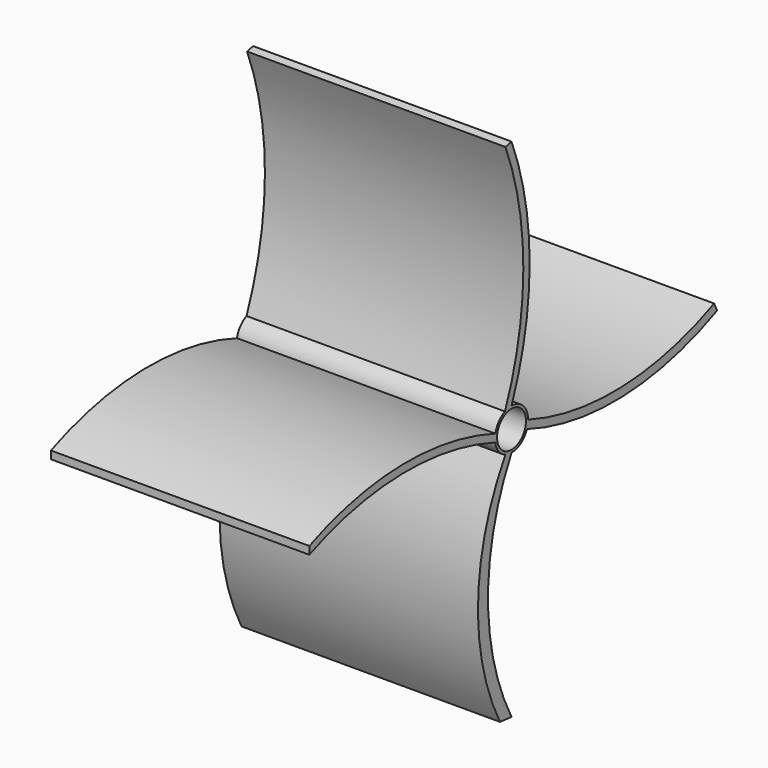
from build123d import *

# Parameters (mm, degrees)
F1_R      = 5.08
F2_DEPTH  = 63.5
F0_R      = 4.445
F3_DEPTH  = 63.5
F5_DEPTH  = 63.5
F7_DEPTH  = 63.5
F8_DEPTH  = 63.5
F9_DEPTH  = 63.5
F10_DEPTH = 63.5
F12_DEPTH = 63.5


with BuildPart() as f2:
    # F1 (on Right) → F2 (new body)
    with BuildSketch(Plane.YZ):
        Circle(F1_R)
    extrude(amount=F2_DEPTH)

    # F0 (on Right) → F3 (cut)
    with BuildSketch(Plane.YZ):
        Circle(F0_R)
    extrude(amount=F3_DEPTH, mode=Mode.SUBTRACT)

    # F4 (on face) → F5 (join)
    with BuildSketch(Plane(origin=(0, 0, 0), x_dir=(0, -1, 0), z_dir=(-1, 0, 0))):
        with BuildLine():
            Line((1.8586593957, 61.8123754669), (0, 62.23))
            ThreePointArc((0, 62.23), (-5.5607094104, 33.655), (0, 5.08))
            Line((0, 5.08), (2.0170907281, 4.6623754669))
            ThreePointArc((2.0170907281, 4.6623754669), (-3.6228573978, 33.2219599945), (1.8586593957, 61.8123754669))
        make_face()
        with BuildLine():
            ThreePointArc((-5.08, 0), (-33.8404680393, -4.6115411802), (-62.23, 1.905))
            Line((-62.23, 1.905), (-63.1423318884, 0))
            ThreePointArc((-63.1423318884, 0), (-34.1176295925, -6.7962114283), (-4.7137119488, -1.8940220863))
            Line((-4.7137119488, -1.8940220863), (-5.08, 0))
        make_face()
    extrude(amount=-F5_DEPTH)

    # F6 (on face) → F7 (join)
    with BuildSketch(Plane(origin=(0, 0, 0), x_dir=(0, -1, 0), z_dir=(-1, 0, 0))):
        with BuildLine():
            Line((0, -62.23), (3.5446478981, -61.8728125))
            ThreePointArc((3.5446478981, -61.8728125), (10.2934213489, -33.0756984809), (1.8712140684, -4.7228125))
            Line((1.8712140684, -4.7228125), (0, -5.08))
            ThreePointArc((0, -5.08), (7.2193443837, -33.655), (0, -62.23))
        make_face()
    extrude(amount=-F7_DEPTH)

    # F4 (on face) → F8 (join)
    with BuildSketch(Plane(origin=(0, 0, 0), x_dir=(0, -1, 0), z_dir=(-1, 0, 0))):
        with BuildLine():
            Line((1.8586593957, 61.8123754669), (0, 62.23))
            ThreePointArc((0, 62.23), (-5.5607094104, 33.655), (0, 5.08))
            Line((0, 5.08), (2.0170907281, 4.6623754669))
            ThreePointArc((2.0170907281, 4.6623754669), (-3.6228573978, 33.2219599945), (1.8586593957, 61.8123754669))
        make_face()
        with BuildLine():
            ThreePointArc((-5.08, 0), (-33.8404680393, -4.6115411802), (-62.23, 1.905))
            Line((-62.23, 1.905), (-63.1423318884, 0))
            ThreePointArc((-63.1423318884, 0), (-34.1176295925, -6.7962114283), (-4.7137119488, -1.8940220863))
            Line((-4.7137119488, -1.8940220863), (-5.08, 0))
        make_face()
    extrude(amount=-F8_DEPTH)

    # F4 (on face) → F9 (join)
    with BuildSketch(Plane(origin=(0, 0, 0), x_dir=(0, -1, 0), z_dir=(-1, 0, 0))):
        with BuildLine():
            Line((1.8586593957, 61.8123754669), (0, 62.23))
            ThreePointArc((0, 62.23), (-5.5607094104, 33.655), (0, 5.08))
            Line((0, 5.08), (2.0170907281, 4.6623754669))
            ThreePointArc((2.0170907281, 4.6623754669), (-3.6228573978, 33.2219599945), (1.8586593957, 61.8123754669))
        make_face()
        with BuildLine():
            ThreePointArc((-5.08, 0), (-33.8404680393, -4.6115411802), (-62.23, 1.905))
            Line((-62.23, 1.905), (-63.1423318884, 0))
            ThreePointArc((-63.1423318884, 0), (-34.1176295925, -6.7962114283), (-4.7137119488, -1.8940220863))
            Line((-4.7137119488, -1.8940220863), (-5.08, 0))
        make_face()
    extrude(amount=-F9_DEPTH)

    # F4 (on face) → F10 (join)
    with BuildSketch(Plane(origin=(0, 0, 0), x_dir=(0, -1, 0), z_dir=(-1, 0, 0))):
        with BuildLine():
            Line((1.8586593957, 61.8123754669), (0, 62.23))
            ThreePointArc((0, 62.23), (-5.5607094104, 33.655), (0, 5.08))
            Line((0, 5.08), (2.0170907281, 4.6623754669))
            ThreePointArc((2.0170907281, 4.6623754669), (-3.6228573978, 33.2219599945), (1.8586593957, 61.8123754669))
        make_face()
        with BuildLine():
            ThreePointArc((-5.08, 0), (-33.8404680393, -4.6115411802), (-62.23, 1.905))
            Line((-62.23, 1.905), (-63.1423318884, 0))
            ThreePointArc((-63.1423318884, 0), (-34.1176295925, -6.7962114283), (-4.7137119488, -1.8940220863))
            Line((-4.7137119488, -1.8940220863), (-5.08, 0))
        make_face()
    extrude(amount=-F10_DEPTH)

    # F11 (on face) → F12 (join)
    with BuildSketch(Plane(origin=(0, 0, 0), x_dir=(0, -1, 0), z_dir=(-1, 0, 0))):
        with BuildLine():
            Line((62.1130176587, -1.905), (62.1130176587, 0))
            ThreePointArc((62.1130176587, 0), (33.6397368663, 5.978196278), (4.9630176587, 1.0677660203))
            Line((4.9630176587, 1.0677660203), (4.9630176587, -0.8372339797))
            ThreePointArc((4.9630176587, -0.8372339797), (33.6388311261, 4.024718381), (62.1130176587, -1.905))
        make_face()
    extrude(amount=-F12_DEPTH)


solid = f2.part
